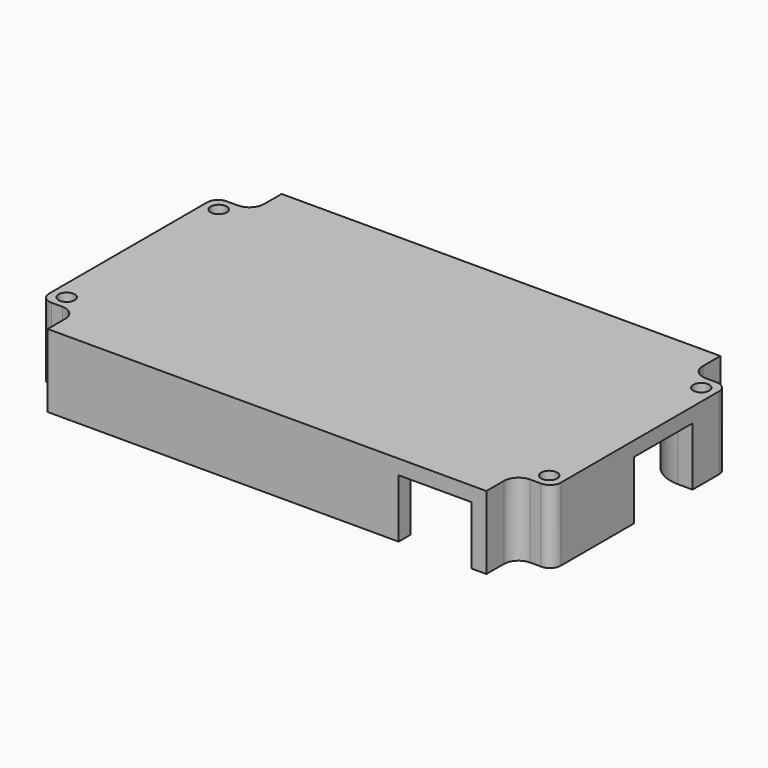
from build123d import *

# Parameters (mm, degrees)
PAD_DEPTH       = 10
SKETCH002_R     = 1.1
HOLE_DEPTH      = 25
POCKET001_DEPTH = 8
SKETCH004_W     = 8
SKETCH004_H     = 4
SKETCH004_W_2   = 10
SKETCH004_W_3   = 4
SKETCH004_H_2   = 10
POCKET002_DEPTH = 8
FILLET_R        = 1.5


with BuildPart() as part:
    # Sketch → Pad (new body)
    with BuildSketch(Plane.XY):
        with BuildLine():
            ThreePointArc((-30, -17), (-30.585786, -15.585786), (-32, -15))
            Line((-32, -15), (-35, -15))
            Line((-35, 15), (-35, -15))
            Line((-32, 15), (-35, 15))
            ThreePointArc((-32, 15), (-30.585786, 15.585786), (-30, 17))
            Line((-30, 20), (-30, 17))
            Line((30, 20), (-30, 20))
            Line((30, 20), (30, 17))
            ThreePointArc((30, 17), (30.585786, 15.585786), (32, 15))
            Line((32, 15), (35, 15))
            Line((35, 15), (35, -15))
            Line((32, -15), (35, -15))
            ThreePointArc((32, -15), (30.585786, -15.585786), (30, -17))
            Line((30, -17), (30, -20))
            Line((-30, -20), (30, -20))
            Line((-30, -17), (-30, -20))
        make_face()
    extrude(amount=PAD_DEPTH)

    # Sketch002 → Hole (cut)
    with BuildSketch(Plane.XY):
        with Locations((33, 13)):
            Circle(SKETCH002_R)
        with Locations((33, -13)):
            Circle(SKETCH002_R)
        with Locations((-33, -13)):
            Circle(SKETCH002_R)
        with Locations((-33, 13)):
            Circle(SKETCH002_R)
    extrude(amount=HOLE_DEPTH, mode=Mode.SUBTRACT)

    # Sketch003 → Pocket001 (cut)
    with BuildSketch(Plane.XY):
        with BuildLine():
            Line((28, -18), (-28, -18))
            Line((-28, -18), (-28, -14))
            ThreePointArc((-28, -14), (-29.464466, -10.464466), (-33, -9))
            Line((-33, -9), (-33, 9))
            ThreePointArc((-33, 9), (-29.464466, 10.464466), (-28, 14))
            Line((-28, 14), (-28, 18))
            Line((-28, 18), (28, 18))
            Line((28, 18), (28, 14))
            ThreePointArc((28, 14), (29.464466, 10.464466), (33, 9))
            Line((33, 9), (33, -9))
            ThreePointArc((33, -9), (29.464466, -10.464466), (28, -14))
            Line((28, -14), (28, -18))
        make_face()
    extrude(amount=POCKET001_DEPTH, mode=Mode.SUBTRACT)

    # Sketch004 → Pocket002 (cut)
    with BuildSketch(Plane.XY):
        with Locations((-24, 19)):
            Rectangle(SKETCH004_W, SKETCH004_H)
        with Locations((23, -19)):
            Rectangle(SKETCH004_W_2, SKETCH004_H)
        with Locations((34, 4)):
            Rectangle(SKETCH004_W_3, SKETCH004_H_2)
    extrude(amount=POCKET002_DEPTH, mode=Mode.SUBTRACT)

    # Fillet
    fillet_edges = [part.edges().sort_by_distance(p)[0] for p in [
        (35, -15, 5),
        (35, 15, 5),
        (-35, -15, 5),
        (-35, 15, 5),
    ]]
    fillet(fillet_edges, radius=FILLET_R)


solid = part.part
